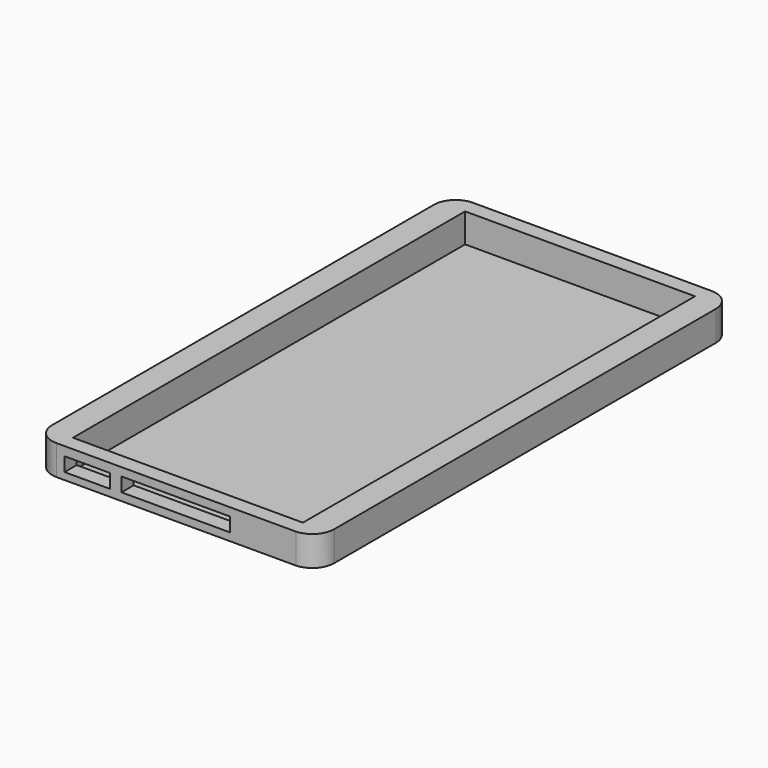
from build123d import *

# Parameters (mm, degrees)
F1_DEPTH = 0.254
F2_DEPTH = 8.509
F3_W     = 31.75
F3_H     = 4.092419
F3_W_2   = 13.322128
F4_DEPTH = 25.4


with BuildPart() as f1:
    # F0 (on Top) → F1 (new body)
    with BuildSketch(Plane.XY):
        with BuildLine():
            Line((-46.424261, 69.85), (-46.424261, 0))
            Line((-46.424261, 0), (-46.424261, -69.85))
            ThreePointArc((-46.424261, -69.85), (-44.564389, -74.340128), (-40.074261, -76.2))
            Line((-40.074261, -76.2), (30.013567, -76.2))
            ThreePointArc((30.013567, -76.2), (34.34943, -74.256845), (36.125739, -69.85))
            Line((36.125739, -69.85), (36.125739, 0))
            Line((36.125739, 0), (36.125739, 69.85))
            ThreePointArc((36.125739, 69.85), (34.34943, 74.256845), (30.013567, 76.2))
            Line((30.013567, 76.2), (-40.074261, 76.2))
            ThreePointArc((-40.074261, 76.2), (-44.564389, 74.340128), (-46.424261, 69.85))
        make_face()
        Polygon((-38.804261, 0), (-38.804261, 71.755), (28.505739, 71.755), (28.505739, 0), (28.505739, -71.755), (-38.804261, -71.755), align=None, mode=Mode.SUBTRACT)
        Polygon((28.505739, 71.755), (-38.804261, 71.755), (-38.804261, 0), (-38.804261, -71.755), (28.505739, -71.755), (28.505739, 0), align=None)
    extrude(amount=-F1_DEPTH)

    # F0 (on Top) → F2 (join)
    with BuildSketch(Plane.XY):
        with BuildLine():
            Line((-46.424261, 69.85), (-46.424261, 0))
            Line((-46.424261, 0), (-46.424261, -69.85))
            ThreePointArc((-46.424261, -69.85), (-44.564389, -74.340128), (-40.074261, -76.2))
            Line((-40.074261, -76.2), (30.013567, -76.2))
            ThreePointArc((30.013567, -76.2), (34.34943, -74.256845), (36.125739, -69.85))
            Line((36.125739, -69.85), (36.125739, 0))
            Line((36.125739, 0), (36.125739, 69.85))
            ThreePointArc((36.125739, 69.85), (34.34943, 74.256845), (30.013567, 76.2))
            Line((30.013567, 76.2), (-40.074261, 76.2))
            ThreePointArc((-40.074261, 76.2), (-44.564389, 74.340128), (-46.424261, 69.85))
        make_face()
        Polygon((-38.804261, 0), (-38.804261, 71.755), (28.505739, 71.755), (28.505739, 0), (28.505739, -71.755), (-38.804261, -71.755), align=None, mode=Mode.SUBTRACT)
    extrude(amount=F2_DEPTH)

    # F3 (on face) → F4 (cut)
    with BuildSketch(Plane.XZ.offset(76.2)):
        with Locations((-5.149261, 4.066918)):
            Rectangle(F3_W, F3_H)
        with Locations((-31.042797, 3.856391)):
            Rectangle(F3_W_2, F3_H)
    extrude(amount=-F4_DEPTH, mode=Mode.SUBTRACT)


solid = f1.part
